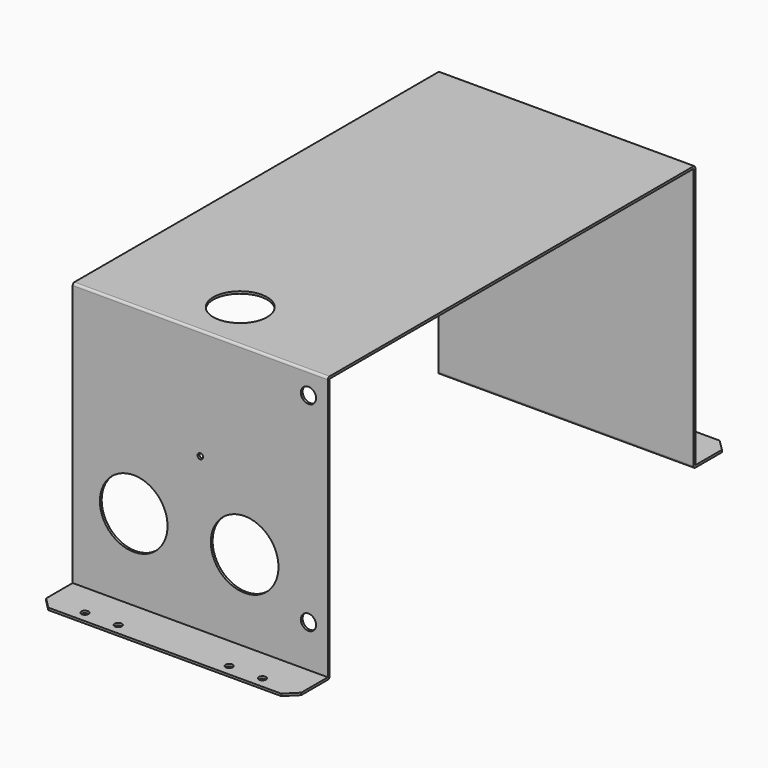
from build123d import *

# Parameters (mm, degrees)
F1_DEPTH  = 230
F3_D      = 48.6
F5_D      = 6.5
F6_D      = 5.5
F7_SIZE   = 10
F9_D      = 61
F9_DEPTH  = 12
F10_D     = 5
F10_DEPTH = 5
F11_D     = 13.72
F11_DEPTH = 5
F13_D     = 12.7
F13_DEPTH = 5
F14_D     = 19.05
F14_DEPTH = 5


with BuildPart() as f1:
    # F0 (on Right) → F1 (new body)
    with BuildSketch(Plane.YZ):
        with BuildLine():
            Line((205, 0), (-205, 0))
            ThreePointArc((-205, 0), (-206.414214, -0.585786), (-207, -2))
            Line((-207, -2), (-207, -238))
            Line((-207, -238), (-247, -238))
            Line((-247, -238), (-247, -240))
            Line((-247, -240), (-207, -240))
            ThreePointArc((-207, -240), (-205.585786, -239.414214), (-205, -238))
            Line((-205, -238), (-205, -2))
            Line((-205, -2), (205, -2))
            Line((205, -2), (205, -238))
            ThreePointArc((205, -238), (205.585786, -239.414214), (207, -240))
            Line((207, -240), (247, -240))
            Line((247, -240), (247, -238))
            Line((247, -238), (207, -238))
            Line((207, -238), (207, -2))
            ThreePointArc((207, -2), (206.414214, -0.585786), (205, 0))
        make_face()
    extrude(amount=F1_DEPTH)

    # F3 (through all)
    with Locations(Plane.XY):
        with Locations((115, -162)):
            Hole(F3_D / 2)

    # F5 (through all)
    with Locations(Plane.XY.offset(-238)):
        with Locations((35, -237), (65, -237), (165, -237), (195, -237)):
            Hole(F5_D / 2)

    # F6 (through all)
    with Locations(Plane.XY.offset(-238)):
        with Locations((35, 237), (65, 237), (165, 237), (195, 237)):
            Hole(F6_D / 2)

    # F7
    f7_edges = [f1.edges().sort_by_distance(p)[0] for p in [
        (0, -247, -239),
        (230, -247, -239),
        (230, 247, -239),
        (0, 247, -239),
    ]]
    chamfer(f7_edges, length=F7_SIZE)

    # F9
    with Locations(Plane.XZ.offset(207)):
        with Locations((55, -165), (155, -165)):
            Hole(F9_D / 2, depth=F9_DEPTH)

    # F10
    with Locations(Plane.XZ.offset(207)):
        with Locations((115, -100)):
            Hole(F10_D / 2, depth=F10_DEPTH)

    # F11
    with Locations(Plane.XZ.offset(207)):
        with Locations((212.5, -20), (212.5, -200)):
            Hole(F11_D / 2, depth=F11_DEPTH)

    # F13
    with Locations(Plane(origin=(0, 207, 0), x_dir=(-1, 0, 0), z_dir=(0, 1, 0))):
        with Locations((-190, -20)):
            Hole(F13_D / 2, depth=F13_DEPTH)

    # F14
    with Locations(Plane(origin=(0, 207, 0), x_dir=(-1, 0, 0), z_dir=(0, 1, 0))):
        with Locations((-115, -20)):
            Hole(F14_D / 2, depth=F14_DEPTH)


solid = f1.part
